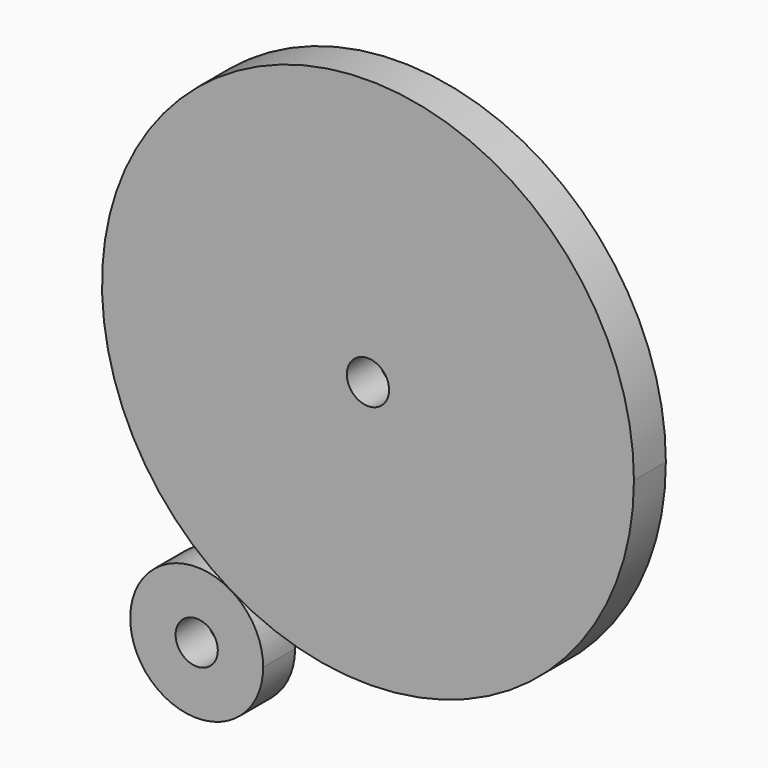
from build123d import *

# Parameters (mm, degrees)
F0_R     = 1.5875
F1_DEPTH = 3


with BuildPart() as f1:
    # F0 (on Front) → F1 (new body)
    with BuildSketch(Plane.XZ):
        with BuildLine():
            ThreePointArc((-93.087827, 53.12893), (-122.934906, 70.536832), (-123.391329, 35.987232))
            ThreePointArc((-123.391329, 35.987232), (-103.240747, 35.721029), (-93.087827, 53.12893))
        make_face()
        with Locations((-113.087827, 53.12893)):
            Circle(F0_R, mode=Mode.SUBTRACT)
        with BuildLine():
            ThreePointArc((-123.391329, 35.987232), (-130.31918, 29.240037), (-120.967205, 31.701807))
            ThreePointArc((-120.967205, 31.701807), (-121.615229, 34.163577), (-123.391329, 35.987232))
        make_face()
        with Locations((-125.967205, 31.701807)):
            Circle(F0_R, mode=Mode.SUBTRACT)
    extrude(amount=F1_DEPTH)


solid = f1.part
